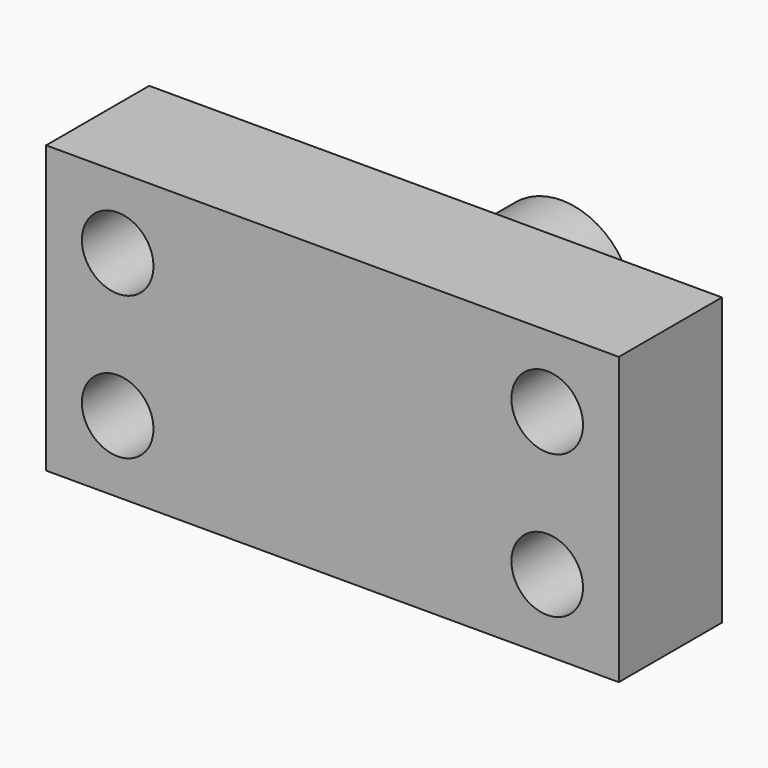
from build123d import *

# Parameters (mm, degrees)
F0_W     = 101.6
F0_H     = 50.8
F1_DEPTH = 25.4
F2_R     = 6.35
F3_DEPTH = 25.401
F4_W     = 12.7
F4_H     = 25.4
F6_W     = 8.04679
F6_H     = 6.35
F8_R     = 1.27
F9_SIZE  = 2.54


with BuildPart() as f1:
    # F0 (on Front) → F1 (new body)
    with BuildSketch(Plane.XZ):
        Rectangle(F0_W, F0_H)
    extrude(amount=-F1_DEPTH)

    # F2 (on face) → F3 (cut, through all)
    with BuildSketch(Plane(origin=(0, 25.4, 0), x_dir=(-1, 0, 0), z_dir=(0, 1, 0))):
        with Locations((-38.1, 12.7)):
            Circle(F2_R)
        with Locations((-38.1, -12.7)):
            Circle(F2_R)
        with Locations((38.1, 12.7)):
            Circle(F2_R)
        with Locations((38.1, -12.7)):
            Circle(F2_R)
    extrude(amount=-F3_DEPTH, mode=Mode.SUBTRACT)

    # F4 (on Top) → F5 (revolve)
    with BuildSketch(Plane.XY):
        with Locations((-6.35, 38.1)):
            Rectangle(F4_W, F4_H)
    revolve(axis=Axis((0, 38.1, 0), (0, 1, 0)))

    # F6 (on Top) → F7 (revolve, cut)
    with BuildSketch(Plane.XY):
        with Locations((-14.183395, 38.735)):
            Rectangle(F6_W, F6_H)
    revolve(axis=Axis((0, 34.03401, 0), (0, 1, 0)), mode=Mode.SUBTRACT)

    # F8
    f8_edges = [f1.edges().sort_by_distance(p)[0] for p in [
        (12.7, 25.4, 0),
        (10.16, 35.56, 0),
        (10.16, 41.91, 0),
    ]]
    fillet(f8_edges, radius=F8_R)

    # F9
    f9_edges = [f1.edges().sort_by_distance(p)[0] for p in [
        (50.8, 25.4, 0),
        (0, 25.4, 25.4),
        (-50.8, 25.4, 0),
        (0, 25.4, -25.4),
    ]]
    chamfer(f9_edges, length=F9_SIZE)


solid = f1.part
